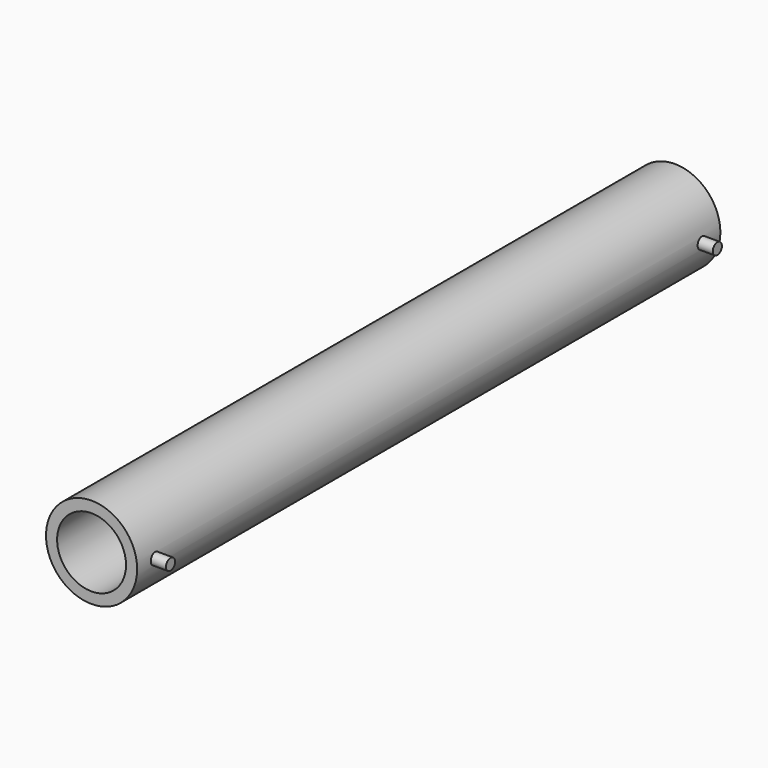
from build123d import *

# Parameters (mm, degrees)
F1_R     = 4.7625
F2_DEPTH = 50.8
F0_R     = 38.1
F0_R_2   = 28.8036
F3_DEPTH = 304.8
F4_DEPTH = 304.8


with BuildPart() as f2:
    # F1 (on Right) → F2 (new body)
    with BuildSketch(Plane.YZ):
        with Locations((-19.05, 0)):
            Circle(F1_R)
    extrude(amount=F2_DEPTH)

    # F0 (on Front) → F3 (join)
    with BuildSketch(Plane.XZ):
        Circle(F0_R)
        Circle(F0_R_2, mode=Mode.SUBTRACT)
        Circle(F0_R_2)
    extrude(amount=F3_DEPTH)

    # F0 (on Front) → F4 (cut)
    with BuildSketch(Plane.XZ):
        Circle(F0_R_2)
    extrude(amount=F4_DEPTH, mode=Mode.SUBTRACT)

    # F5: F2 across face


with BuildPart() as f2_1:
    add(f2.part)
    add(f2.part.mirror(Plane.XZ.offset(304.8)))


solid = f2_1.part
